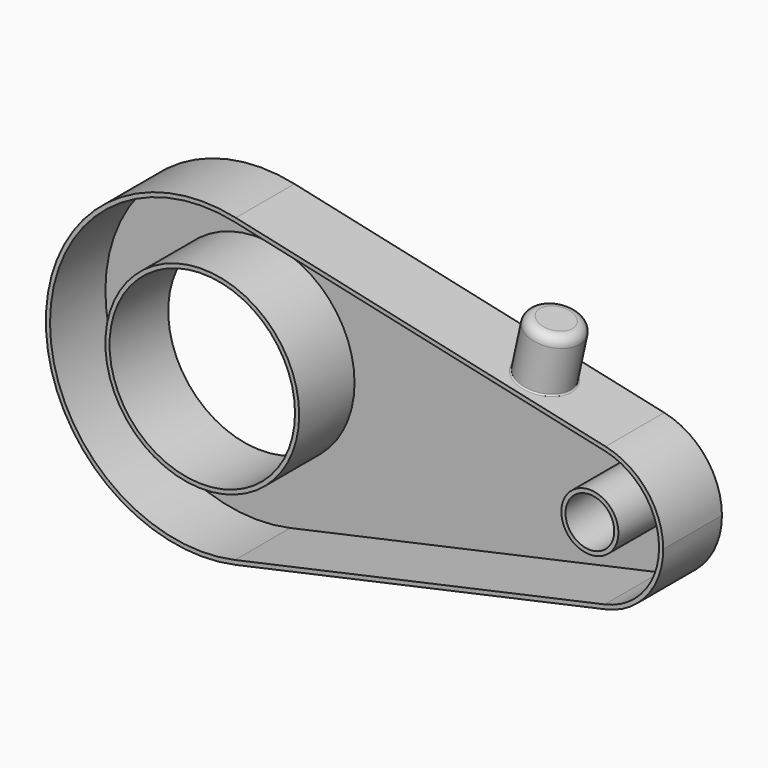
from build123d import *

# Parameters (mm, degrees)
F0_R     = 35
F1_DEPTH = 25
F2_R     = 8.0361334601
F3_DEPTH = 20
F4_R     = 2
F5_R     = 10.3094421679
F6_DEPTH = 25.001
F7_T     = 1.5


with BuildPart() as f1:
    # F0 (on Front) → F1 (new body)
    with BuildSketch(Plane.XZ):
        with BuildLine():
            ThreePointArc((-58.6601695194, -53.7224063011), (-27.590229069, -34.473074379), (-15.4458838051, 0))
            ThreePointArc((-15.4458838051, 0), (-27.590229069, 34.473074379), (-58.6601695194, 53.7224063011))
            ThreePointArc((-58.6601695194, 53.7224063011), (-125.4458838051, 0), (-58.6601695194, -53.7224063011))
        make_face()
        with Locations((-70.4458838051, 0)):
            Circle(F0_R, mode=Mode.SUBTRACT)
        with BuildLine():
            ThreePointArc((-58.6601695194, 53.7224063011), (-27.590229069, 34.473074379), (-15.4458838051, 0))
            ThreePointArc((-15.4458838051, 0), (-27.590229069, -34.473074379), (-58.6601695194, -53.7224063011))
            Line((-58.6601695194, -53.7224063011), (74.9112590521, -24.4192755914))
            ThreePointArc((74.9112590521, -24.4192755914), (44.5541161949, 0), (74.9112590521, 24.4192755914))
            Line((74.9112590521, 24.4192755914), (-58.6601695194, 53.7224063011))
        make_face()
        with BuildLine():
            ThreePointArc((94.5541161949, 0), (89.0339592568, 15.6695792632), (74.9112590521, 24.4192755914))
            ThreePointArc((74.9112590521, 24.4192755914), (44.5541161949, 0), (74.9112590521, -24.4192755914))
            ThreePointArc((74.9112590521, -24.4192755914), (89.0339592568, -15.6695792632), (94.5541161949, 0))
        make_face()
    extrude(amount=F1_DEPTH)

    # F2 (on face) → F3 (join)
    with BuildSketch(Plane(origin=(8.5509543151, 0, 38.9775138646), x_dir=(0.9767710237, 0, -0.2142857143), z_dir=(0.2142857143, 0, 0.9767710237))):
        with Locations((35.0721742403, -12.5)):
            Circle(F2_R)
    extrude(amount=F3_DEPTH)

    # F4
    f4_edges = [f1.edges().sort_by_distance(p)[0] for p in [
        (39.24469, -12.5, 52.719497),
        (34.958976, -12.5, 33.184077),
    ]]
    fillet(f4_edges, radius=F4_R)

    # F5 (on face) → F6 (cut, through all)
    with BuildSketch(Plane.XZ.offset(25)):
        with Locations((69.5541161949, 0)):
            Circle(F5_R)
    extrude(amount=-F6_DEPTH, mode=Mode.SUBTRACT)

    # F7
    f7_openings = [f1.faces().sort_by_distance(p)[0] for p in [
        (-17.192474, -25, 0),
    ]]
    offset(amount=F7_T, openings=f7_openings, kind=Kind.INTERSECTION)


solid = f1.part
